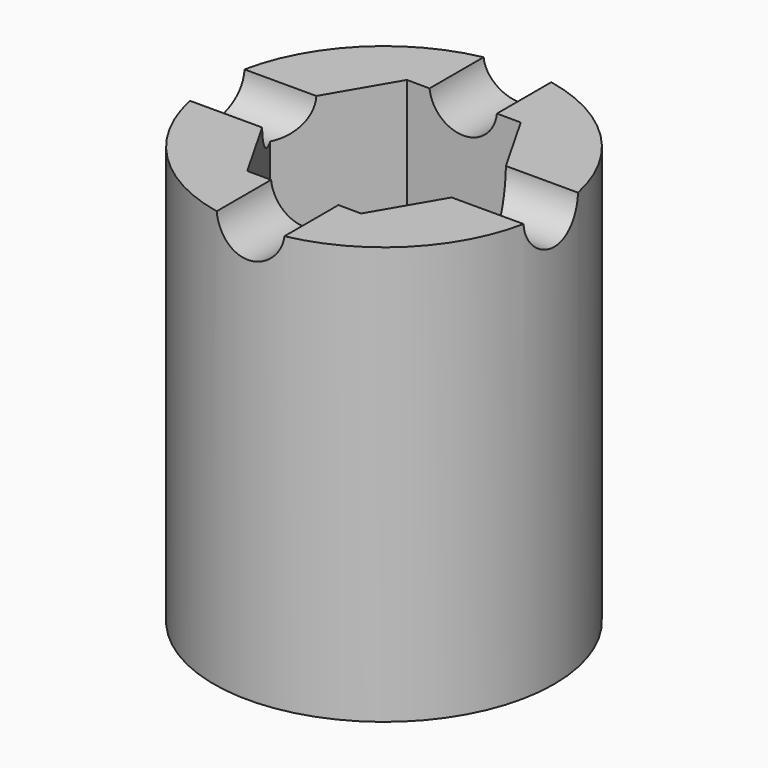
from build123d import *

# Parameters (mm, degrees)
F0_R     = 40
F1_DEPTH = 98.2
F3_DEPTH = 100
F5_R     = 8
F6_DEPTH = 200
F8_R     = 8
F9_DEPTH = 100


with BuildPart() as f1:
    # F0 (on Top) → F1 (new body)
    with BuildSketch(Plane.XY):
        Circle(F0_R)
    extrude(amount=F1_DEPTH)

    # F2 (on face) → F3 (cut)
    with BuildSketch(Plane.XY.offset(98.2)):
        Polygon((26.884189, -0.158689), (13.579523, 23.203046), (-13.304666, 23.361735), (-26.884189, 0.158689), (-13.579523, -23.203046), (13.304666, -23.361735), align=None)
    extrude(amount=-F3_DEPTH, mode=Mode.SUBTRACT)

    # F5 (on offset) → F6 (cut)
    with BuildSketch(Plane.XZ.offset(45)):
        with Locations((0, 99.055015)):
            Circle(F5_R)
    extrude(amount=-F6_DEPTH, mode=Mode.SUBTRACT)

    # F8 (on offset) → F9 (cut)
    with BuildSketch(Plane.YZ.offset(50)):
        with Locations((0, 98.486878)):
            Circle(F8_R)
    extrude(amount=-F9_DEPTH, mode=Mode.SUBTRACT)


solid = f1.part
